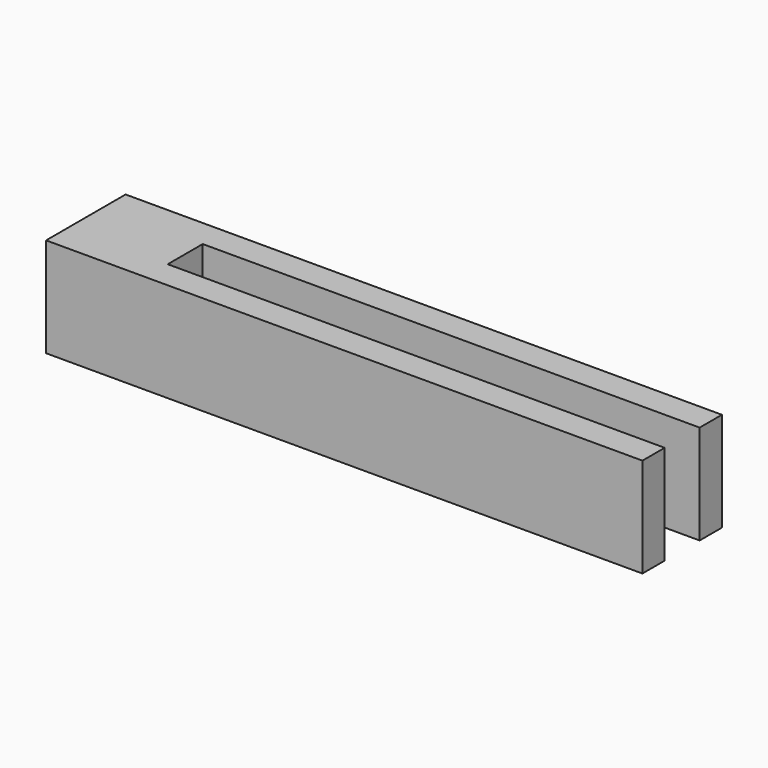
from build123d import *

# Parameters (mm, degrees)
F0_W     = 150
F0_H     = 25
F1_DEPTH = 25
F2_W     = 125
F2_H     = 11
F3_DEPTH = 25.001
F5_D     = 4.2


with BuildPart() as f1:
    # F0 (on Front) → F1 (new body)
    with BuildSketch(Plane.XZ):
        with Locations((75, 12.5)):
            Rectangle(F0_W, F0_H)
    extrude(amount=-F1_DEPTH)

    # F2 (on face) → F3 (cut, through all)
    with BuildSketch(Plane.XY.offset(25)):
        with Locations((87.5, 12.5)):
            Rectangle(F2_W, F2_H)
    extrude(amount=-F3_DEPTH, mode=Mode.SUBTRACT)

    # F5 (through all)
    with Locations(Plane(origin=(0, 0, 0), x_dir=(0, -1, 0), z_dir=(-1, 0, 0))):
        with Locations((-12.5, 12.5)):
            Hole(F5_D / 2)


solid = f1.part
